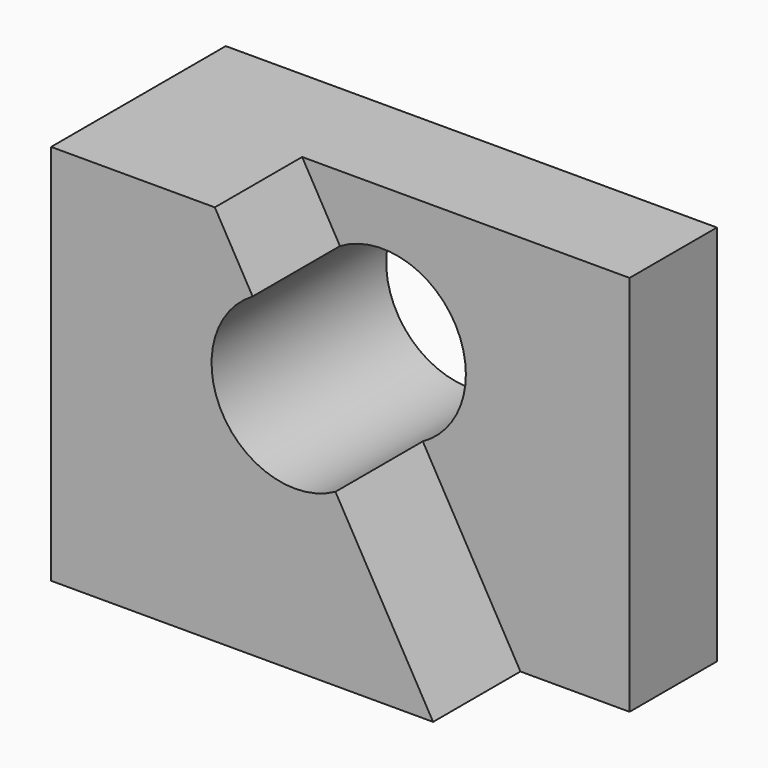
from build123d import *

# Parameters (mm, degrees)
F0_W     = 57.15
F0_H     = 44.45
F1_DEPTH = 25.4
F2_W     = 38.1
F2_H     = 12.7
F3_DEPTH = 44.45
F5_DEPTH = 12.7
F6_R     = 9.716138
F7_DEPTH = 25.401


with BuildPart() as f1:
    # F0 (on Front) → F1 (new body)
    with BuildSketch(Plane.XZ):
        with Locations((0.191138, 22.225)):
            Rectangle(F0_W, F0_H)
    extrude(amount=F1_DEPTH)

    # F2 (on face) → F3 (cut)
    with BuildSketch(Plane.XY.offset(44.45)):
        with Locations((9.716138, -19.05)):
            Rectangle(F2_W, F2_H)
    extrude(amount=-F3_DEPTH, mode=Mode.SUBTRACT)

    # F4 (on face) → F5 (join)
    with BuildSketch(Plane.XZ.offset(12.7)):
        Polygon((16.066138, 0), (-9.333862, 44.45), (-9.333862, 0), align=None)
    extrude(amount=F5_DEPTH)

    # F6 (on Front) → F7 (cut, through all)
    with BuildSketch(Plane.XZ):
        with Locations((0, 28.383862)):
            Circle(F6_R)
    extrude(amount=F7_DEPTH, mode=Mode.SUBTRACT)


solid = f1.part
